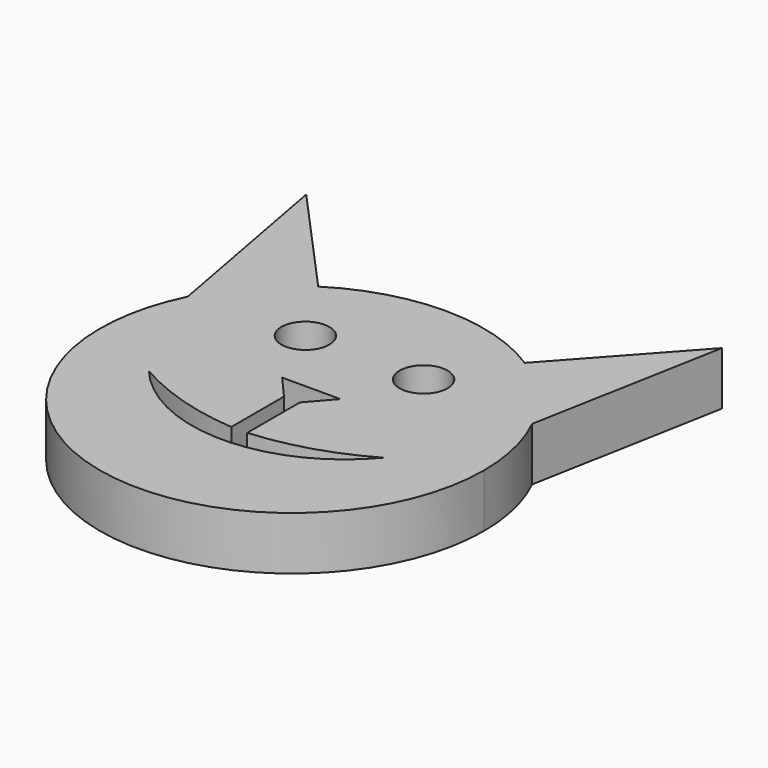
from build123d import *

# Parameters (mm, degrees)
F0_R     = 2.286
F1_DEPTH = 5.08


with BuildPart() as f1:
    # F0 (on Top) → F1 (new body)
    with BuildSketch(Plane.XY):
        with BuildLine():
            ThreePointArc((-16.394592, 8.088413), (-4.15277, -17.803359), (18.281277, 0))
            ThreePointArc((18.281277, 0), (17.803359, 4.15277), (16.394592, 8.088413))
            ThreePointArc((16.394592, 8.088413), (13.614491, 12.200439), (9.830724, 15.413044))
            ThreePointArc((9.830724, 15.413044), (0, 18.281277), (-9.830724, 15.413044))
            ThreePointArc((-9.830724, 15.413044), (-13.614491, 12.200439), (-16.394592, 8.088413))
        make_face()
        with BuildLine():
            ThreePointArc((11.172347, -3.07006), (0, -8.290545), (-11.172347, -3.07006))
            ThreePointArc((-11.172347, -3.07006), (-6.145377, -5.255343), (-0.75922, -6.272794))
            Line((-0.75922, -6.272794), (-0.75922, 0))
            Line((-0.75922, 0), (-2.770182, 2.295201))
            Line((-2.770182, 2.295201), (2.770182, 2.295201))
            Line((2.770182, 2.295201), (0.75922, 0))
            Line((0.75922, 0), (0.75922, -6.272794))
            ThreePointArc((0.75922, -6.272794), (6.145377, -5.255343), (11.172347, -3.07006))
        make_face(mode=Mode.SUBTRACT)
        with Locations((-5.628771, 8.630777)):
            Circle(F0_R, mode=Mode.SUBTRACT)
        with Locations((5.628771, 8.630777)):
            Circle(F0_R, mode=Mode.SUBTRACT)
        with BuildLine():
            ThreePointArc((9.830724, 15.413044), (13.614491, 12.200439), (16.394592, 8.088413))
            Line((16.394592, 8.088413), (19.790254, 26.43105))
            Line((19.790254, 26.43105), (9.830724, 15.413044))
        make_face()
        with BuildLine():
            Line((-19.790254, 26.43105), (-16.394592, 8.088413))
            ThreePointArc((-16.394592, 8.088413), (-13.614491, 12.200439), (-9.830724, 15.413044))
            Line((-9.830724, 15.413044), (-19.790254, 26.43105))
        make_face()
    extrude(amount=F1_DEPTH)


solid = f1.part
